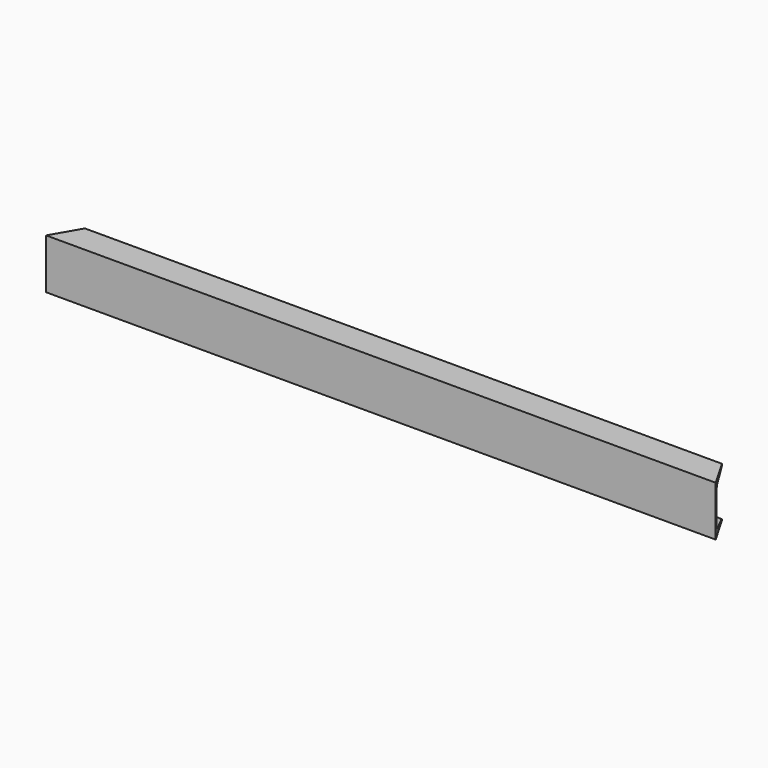
from build123d import *

# Parameters (mm, degrees)
F2_DEPTH = 535
F4_DEPTH = 80


with BuildPart() as f2:
    # F1 (on Right) → F2 (new body, symmetric)
    with BuildSketch(Plane.YZ):
        with BuildLine():
            Line((0, 80), (0, 40))
            Line((0, 40), (6, 40))
            Line((6, 40), (6, 63))
            ThreePointArc((6, 63), (8.185015, 68.878434), (13.679108, 71.902541))
            Line((13.679108, 71.902541), (41.587063, 76.043315))
            ThreePointArc((41.587063, 76.043315), (44.028882, 77.387363), (45, 80))
            Line((45, 80), (0, 80))
        make_face()
        with BuildLine():
            Line((6, 40), (0, 40))
            Line((0, 40), (0, 0))
            Line((0, 0), (45, 0))
            ThreePointArc((45, 0), (44.028882, 2.612637), (41.587063, 3.956685))
            Line((41.587063, 3.956685), (13.679108, 8.097459))
            ThreePointArc((13.679108, 8.097459), (8.185015, 11.121566), (6, 17))
            Line((6, 17), (6, 40))
        make_face()
    extrude(amount=F2_DEPTH, both=True)

    # F3 (on face) → F4 (cut, through all)
    with BuildSketch(Plane.XY.offset(80)):
        Polygon((-535, 45), (-535, 0), (-509.019238, 45), align=None)
        Polygon((535, 45), (509.019238, 45), (535, 0), align=None)
    extrude(amount=-F4_DEPTH, mode=Mode.SUBTRACT)


solid = f2.part
